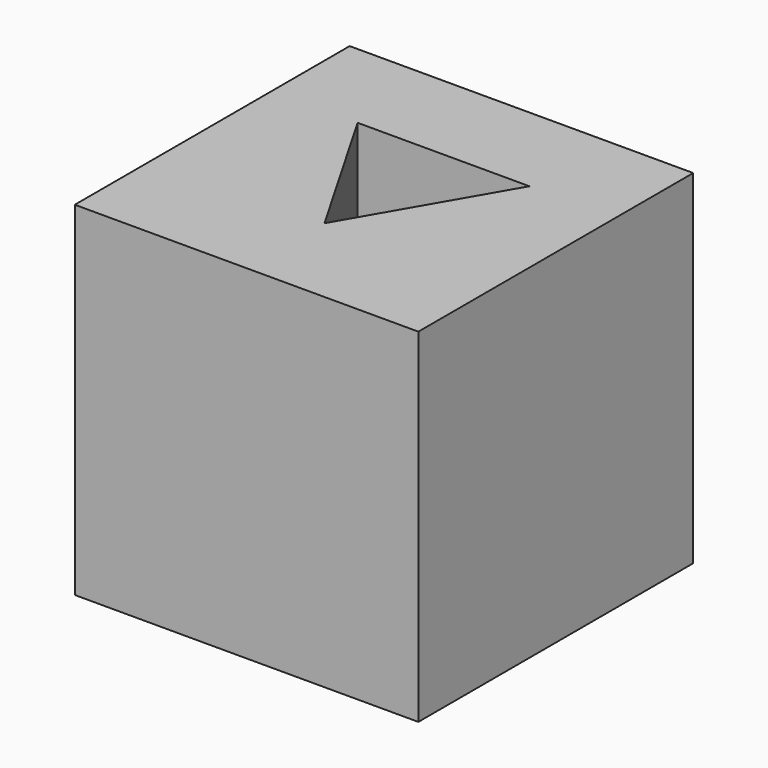
from build123d import *

# Parameters (mm, degrees)
F0_W     = 25.4
F0_H     = 25.4
F1_DEPTH = 25.4
F3_DEPTH = 6.35


with BuildPart() as f1:
    # F0 (on Top) → F1 (new body)
    with BuildSketch(Plane.XY):
        with Locations((12.7, 12.7)):
            Rectangle(F0_W, F0_H)
    extrude(amount=F1_DEPTH)

    # F2 (on face) → F3 (cut)
    with BuildSketch(Plane.XY.offset(25.4)):
        Polygon((19.05, 18.199261), (6.35, 18.199261), (12.7, 7.200739), align=None)
    extrude(amount=-F3_DEPTH, mode=Mode.SUBTRACT)


solid = f1.part
